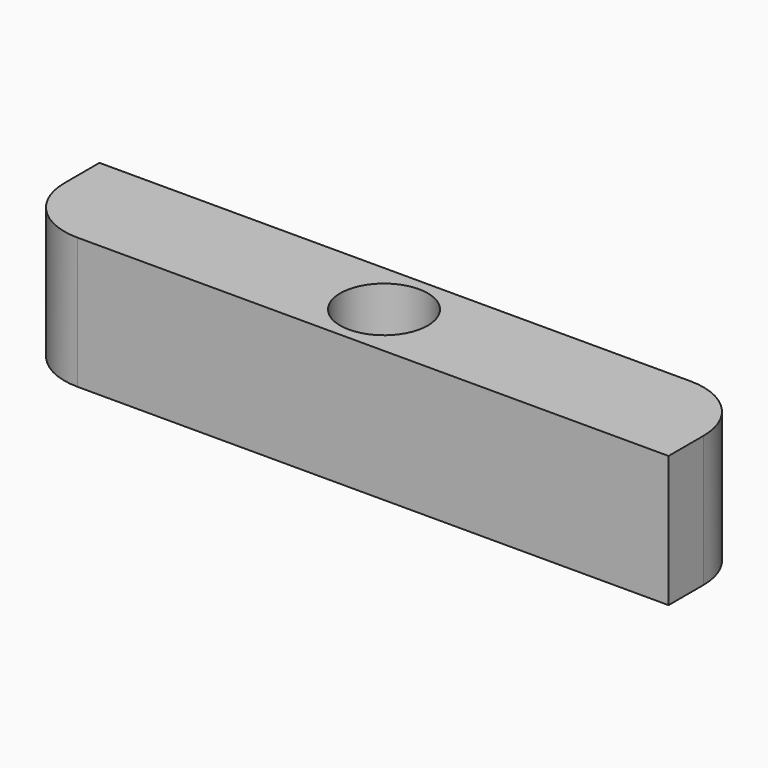
from build123d import *

# Parameters (mm, degrees)
F0_W     = 300
F0_H     = 50
F0_R     = 20
F1_DEPTH = 60
F2_R     = 30


with BuildPart() as f1:
    # F0 (on Top) → F1 (new body)
    with BuildSketch(Plane.XY):
        with Locations((0, -24.096213)):
            Rectangle(F0_W, F0_H)
        with Locations((0, -24.096213)):
            Circle(F0_R, mode=Mode.SUBTRACT)
    extrude(amount=F1_DEPTH)

    # F2
    f2_edges = [f1.edges().sort_by_distance(p)[0] for p in [
        (-150, -49.096213, 30),
        (150, 0.903787, 30),
    ]]
    fillet(f2_edges, radius=F2_R)


solid = f1.part
